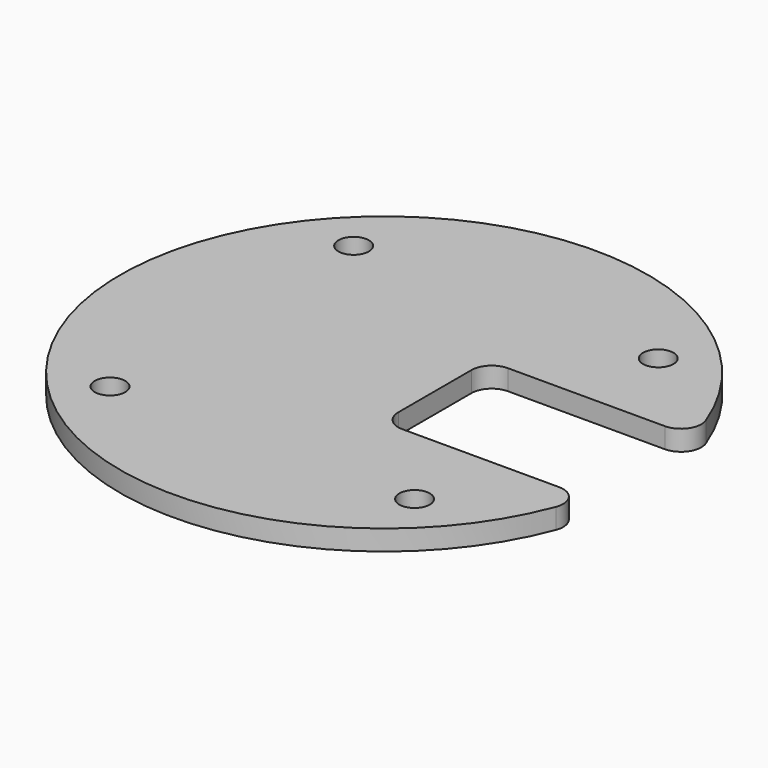
from build123d import *

# Parameters (mm, degrees)
SKETCH_R        = 25.999973
PAD_DEPTH       = 2
SKETCH001_R     = 1.5
POCKET_DEPTH    = 2.001
SKETCH002_W     = 21
SKETCH002_H     = 13.007144
POCKET001_DEPTH = 5
FILLET_R        = 2


with BuildPart() as part:
    # Sketch → Pad (new body)
    with BuildSketch(Plane.XY):
        Circle(SKETCH_R)
    extrude(amount=PAD_DEPTH)

    # Sketch001 (on Face3 of Pad) → Pocket (cut, through all)
    with BuildSketch(Plane.XY.offset(2)):
        with Locations((-15, 15)):
            Circle(SKETCH001_R)
        with Locations((15, 15)):
            Circle(SKETCH001_R)
        with Locations((15, -15)):
            Circle(SKETCH001_R)
        with Locations((-15, -15)):
            Circle(SKETCH001_R)
    extrude(amount=-POCKET_DEPTH, mode=Mode.SUBTRACT)

    # Sketch002 (on Face3 of Pocket) → Pocket001 (cut)
    with BuildSketch(Plane.XY.offset(2)):
        with Locations((15.5, -0.003572)):
            Rectangle(SKETCH002_W, SKETCH002_H)
    extrude(amount=-POCKET001_DEPTH, mode=Mode.SUBTRACT)

    # Fillet
    fillet_edges = [part.edges().sort_by_distance(p)[0] for p in [
        (5, 6.5, 1),
        (5, -6.507144, 1),
        (25.172518, -6.507144, 1),
        (25.174364, 6.5, 1),
    ]]
    fillet(fillet_edges, radius=FILLET_R)


solid = part.part
